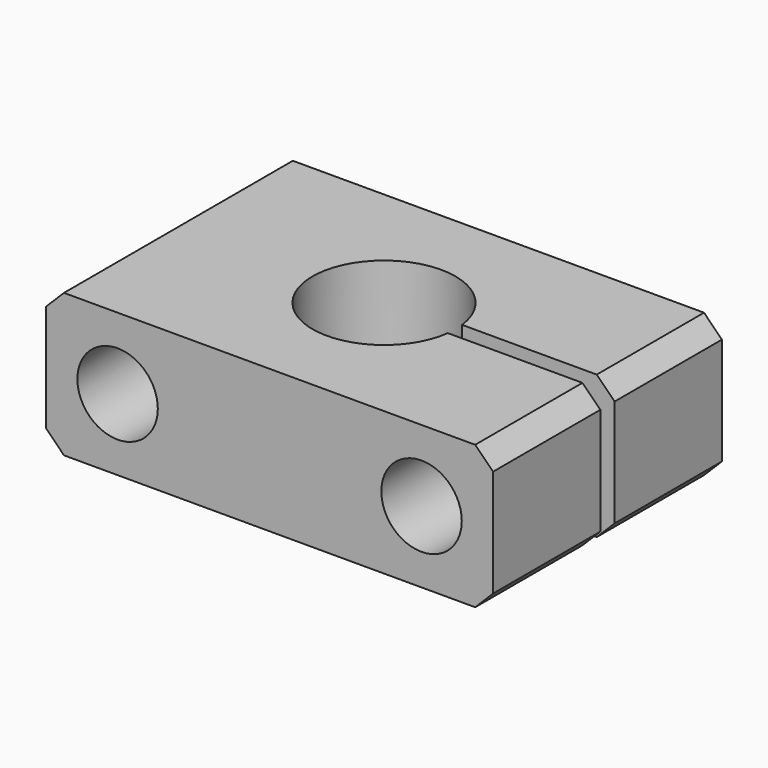
from build123d import *

# Parameters (mm, degrees)
F0_W     = 25
F0_H     = 8
F0_R     = 2.25
F1_DEPTH = 16
F2_R     = 4
F3_DEPTH = 25
F4_SIZE  = 1
F6_DEPTH = 25


with BuildPart() as f1:
    # F0 (on Front) → F1 (new body)
    with BuildSketch(Plane.XZ):
        with Locations((10.216074, 3.959236)):
            Rectangle(F0_W, F0_H)
        with Locations((1.716074, 3.959236)):
            Circle(F0_R, mode=Mode.SUBTRACT)
        with Locations((18.716074, 3.959236)):
            Circle(F0_R, mode=Mode.SUBTRACT)
    extrude(amount=F1_DEPTH)

    # F2 (on face) → F3 (cut)
    with BuildSketch(Plane.XY.offset(7.959236)):
        with Locations((10.216074, -8)):
            Circle(F2_R)
    extrude(amount=-F3_DEPTH, mode=Mode.SUBTRACT)

    # F4
    f4_edges = [f1.edges().sort_by_distance(p)[0] for p in [
        (22.716074, -8, 7.959236),
        (22.716074, -8, -0.040764),
        (-2.283926, -8, 7.959236),
        (-2.283926, -8, -0.040764),
    ]]
    chamfer(f4_edges, length=F4_SIZE)

    # F5 (on face) → F6 (cut)
    with BuildSketch(Plane.XY.offset(7.959236)):
        with BuildLine():
            Line((22.760317, -7.5), (14.184701, -7.5))
            ThreePointArc((14.184701, -7.5), (14.216074, -8), (14.184701, -8.5))
            Line((14.184701, -8.5), (22.760317, -8.5))
            Line((22.760317, -8.5), (22.760317, -7.5))
        make_face()
        with BuildLine():
            Line((22.760317, -7.5), (14.184701, -7.5))
            ThreePointArc((14.184701, -7.5), (14.216074, -8), (14.184701, -8.5))
            Line((14.184701, -8.5), (22.760317, -8.5))
            Line((22.760317, -8.5), (22.760317, -7.5))
        make_face()
    extrude(amount=-F6_DEPTH, mode=Mode.SUBTRACT)


solid = f1.part
